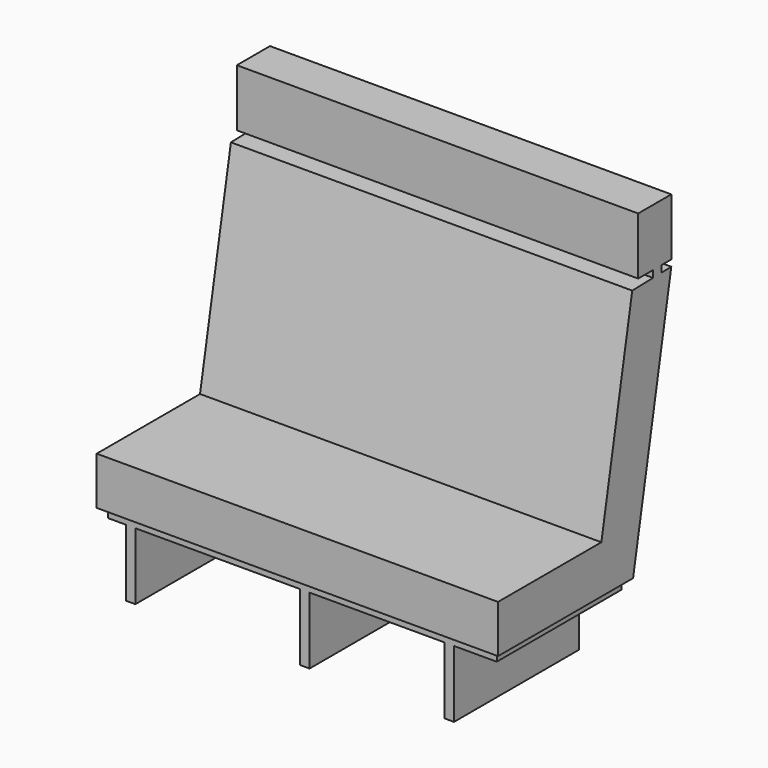
from build123d import *

# Parameters (mm, degrees)
F1_DEPTH = 1260
F2_W     = 1220
F2_H     = 490
F2_W_2   = 1160
F2_H_2   = 430
F3_DEPTH = 30
F4_W     = 30
F4_H     = 490
F5_DEPTH = 210


with BuildPart() as f1:
    # F0 (on Right) → F1 (new body)
    with BuildSketch(Plane.YZ):
        Polygon((-680, 0), (-150, 0), (0, 800), (-38.217112, 799.071343), (-38.217112, 820), (0, 820), (0, 1000), (-130, 1000), (-130, 820), (-71.854167, 820), (-71.854167, 798.25398), (-153.312458, 796.274585), (-274.488943, 150), (-680, 150), align=None)
    extrude(amount=F1_DEPTH)

    # F2 (on face) → F3 (join)
    with BuildSketch(Plane(origin=(0, 0, 0), x_dir=(1, 0, 0), z_dir=(0, 0, -1))):
        with Locations((630, 415)):
            Rectangle(F2_W, F2_H)
        with Locations((630, 415)):
            Rectangle(F2_W_2, F2_H_2, mode=Mode.SUBTRACT)
    extrude(amount=F3_DEPTH)

    # F4 (on face) → F5 (join)
    with BuildSketch(Plane(origin=(0, 0, -30), x_dir=(1, 0, 0), z_dir=(0, 0, -1))):
        with Locations((1090.837493, 415)):
            Rectangle(F4_W, F4_H)
        with Locations((637.32095, 415)):
            Rectangle(F4_W, F4_H)
        with Locations((90.456768, 415)):
            Rectangle(F4_W, F4_H)
    extrude(amount=F5_DEPTH)


solid = f1.part
